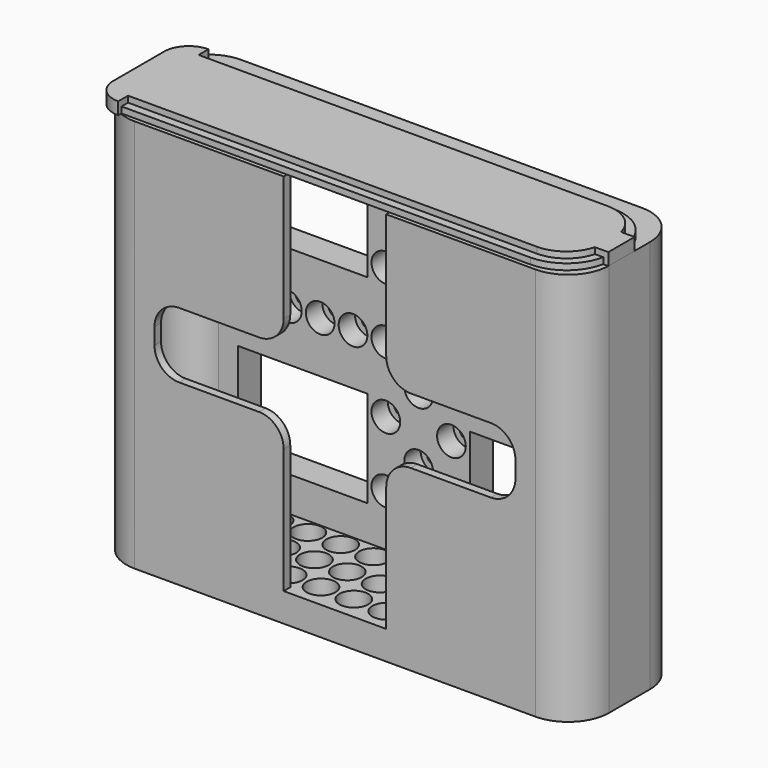
from build123d import *

# Parameters (mm, degrees)
SKETCH_R        = 2
PAD_DEPTH       = 2
SKETCH010_R     = 3.5
PAD008_DEPTH    = 5
PAD009_DEPTH    = 89
SKETCH013_R     = 3.5
SKETCH013_W     = 31.5
SKETCH013_H     = 23.5
POCKET_DEPTH    = 5
SKETCH014_R     = 2
SKETCH014_W     = 31.5
SKETCH014_H     = 23.5
POCKET001_DEPTH = 2
POCKET002_DEPTH = 2
FILLET_R        = 6
FILLET003_R     = 8
FILLET004_R     = 10
PAD005_DEPTH    = 1.5
PAD006_DEPTH    = 1.5
SKETCH009_W     = 8
SKETCH009_H     = 3
PAD007_DEPTH    = 3
FILLET002_R     = 5.99


with BuildPart() as shell:
    # Sketch → Pad (new body)
    with BuildSketch(Plane.XY):
        Polygon((-58.85, -13.75), (58.85, -13.75), (58.85, 13.75), (58.85, 18.75), (-58.85, 18.75), (-58.85, 13.75), align=None)
        with Locations((8, -8)):
            Circle(SKETCH_R, mode=Mode.SUBTRACT)
        with Locations((16, -8)):
            Circle(SKETCH_R, mode=Mode.SUBTRACT)
        with Locations((24, -8)):
            Circle(SKETCH_R, mode=Mode.SUBTRACT)
        with Locations((32, -8)):
            Circle(SKETCH_R, mode=Mode.SUBTRACT)
        with Locations((40, -8)):
            Circle(SKETCH_R, mode=Mode.SUBTRACT)
        with Locations((48, -8)):
            Circle(SKETCH_R, mode=Mode.SUBTRACT)
        with Locations((48, 0)):
            Circle(SKETCH_R, mode=Mode.SUBTRACT)
        with Locations((40, 0)):
            Circle(SKETCH_R, mode=Mode.SUBTRACT)
        with Locations((32, 0)):
            Circle(SKETCH_R, mode=Mode.SUBTRACT)
        with Locations((24, 0)):
            Circle(SKETCH_R, mode=Mode.SUBTRACT)
        with Locations((16, 0)):
            Circle(SKETCH_R, mode=Mode.SUBTRACT)
        with Locations((8, 0)):
            Circle(SKETCH_R, mode=Mode.SUBTRACT)
        Circle(SKETCH_R, mode=Mode.SUBTRACT)
        with Locations((0, -8)):
            Circle(SKETCH_R, mode=Mode.SUBTRACT)
        with Locations((0, 8)):
            Circle(SKETCH_R, mode=Mode.SUBTRACT)
        with Locations((8, 8)):
            Circle(SKETCH_R, mode=Mode.SUBTRACT)
        with Locations((16, 8)):
            Circle(SKETCH_R, mode=Mode.SUBTRACT)
        with Locations((24, 8)):
            Circle(SKETCH_R, mode=Mode.SUBTRACT)
        with Locations((32, 8)):
            Circle(SKETCH_R, mode=Mode.SUBTRACT)
        with Locations((40, 8)):
            Circle(SKETCH_R, mode=Mode.SUBTRACT)
        with Locations((48, 8)):
            Circle(SKETCH_R, mode=Mode.SUBTRACT)
        with Locations((-8, -8)):
            Circle(SKETCH_R, mode=Mode.SUBTRACT)
        with Locations((-8, 0)):
            Circle(SKETCH_R, mode=Mode.SUBTRACT)
        with Locations((-8, 8)):
            Circle(SKETCH_R, mode=Mode.SUBTRACT)
        with Locations((-16, 8)):
            Circle(SKETCH_R, mode=Mode.SUBTRACT)
        with Locations((-16, 0)):
            Circle(SKETCH_R, mode=Mode.SUBTRACT)
        with Locations((-16, -8)):
            Circle(SKETCH_R, mode=Mode.SUBTRACT)
        with Locations((-24, -8)):
            Circle(SKETCH_R, mode=Mode.SUBTRACT)
        with Locations((-32, -8)):
            Circle(SKETCH_R, mode=Mode.SUBTRACT)
        with Locations((-40, -8)):
            Circle(SKETCH_R, mode=Mode.SUBTRACT)
        with Locations((-48, -8)):
            Circle(SKETCH_R, mode=Mode.SUBTRACT)
        with Locations((-48, 0)):
            Circle(SKETCH_R, mode=Mode.SUBTRACT)
        with Locations((-40, 0)):
            Circle(SKETCH_R, mode=Mode.SUBTRACT)
        with Locations((-32, 0)):
            Circle(SKETCH_R, mode=Mode.SUBTRACT)
        with Locations((-24, 0)):
            Circle(SKETCH_R, mode=Mode.SUBTRACT)
        with Locations((-24, 8)):
            Circle(SKETCH_R, mode=Mode.SUBTRACT)
        with Locations((-32, 8)):
            Circle(SKETCH_R, mode=Mode.SUBTRACT)
        with Locations((-40, 8)):
            Circle(SKETCH_R, mode=Mode.SUBTRACT)
        with Locations((-48, 8)):
            Circle(SKETCH_R, mode=Mode.SUBTRACT)
    extrude(amount=PAD_DEPTH)

    # Sketch010 (on Face43 of Pad) → Pad008 (join)
    with BuildSketch(Plane.XY.offset(2)):
        Polygon((-58.85, -13.75), (58.85, -13.75), (58.85, 13.75), (58.85, 18.75), (-58.85, 18.75), (-58.85, 13.75), align=None)
        with Locations((8, -8)):
            Circle(SKETCH010_R, mode=Mode.SUBTRACT)
        with Locations((16, -8)):
            Circle(SKETCH010_R, mode=Mode.SUBTRACT)
        with Locations((24, -8)):
            Circle(SKETCH010_R, mode=Mode.SUBTRACT)
        with Locations((32, -8)):
            Circle(SKETCH010_R, mode=Mode.SUBTRACT)
        with Locations((40, -8)):
            Circle(SKETCH010_R, mode=Mode.SUBTRACT)
        with Locations((48, -8)):
            Circle(SKETCH010_R, mode=Mode.SUBTRACT)
        with Locations((48, 0)):
            Circle(SKETCH010_R, mode=Mode.SUBTRACT)
        with Locations((40, 0)):
            Circle(SKETCH010_R, mode=Mode.SUBTRACT)
        with Locations((32, 0)):
            Circle(SKETCH010_R, mode=Mode.SUBTRACT)
        with Locations((24, 0)):
            Circle(SKETCH010_R, mode=Mode.SUBTRACT)
        with Locations((16, 0)):
            Circle(SKETCH010_R, mode=Mode.SUBTRACT)
        with Locations((8, 0)):
            Circle(SKETCH010_R, mode=Mode.SUBTRACT)
        Circle(SKETCH010_R, mode=Mode.SUBTRACT)
        with Locations((0, -8)):
            Circle(SKETCH010_R, mode=Mode.SUBTRACT)
        with Locations((0, 8)):
            Circle(SKETCH010_R, mode=Mode.SUBTRACT)
        with Locations((8, 8)):
            Circle(SKETCH010_R, mode=Mode.SUBTRACT)
        with Locations((16, 8)):
            Circle(SKETCH010_R, mode=Mode.SUBTRACT)
        with Locations((24, 8)):
            Circle(SKETCH010_R, mode=Mode.SUBTRACT)
        with Locations((32, 8)):
            Circle(SKETCH010_R, mode=Mode.SUBTRACT)
        with Locations((40, 8)):
            Circle(SKETCH010_R, mode=Mode.SUBTRACT)
        with Locations((48, 8)):
            Circle(SKETCH010_R, mode=Mode.SUBTRACT)
        with Locations((-8, -8)):
            Circle(SKETCH010_R, mode=Mode.SUBTRACT)
        with Locations((-8, 0)):
            Circle(SKETCH010_R, mode=Mode.SUBTRACT)
        with Locations((-8, 8)):
            Circle(SKETCH010_R, mode=Mode.SUBTRACT)
        with Locations((-16, 8)):
            Circle(SKETCH010_R, mode=Mode.SUBTRACT)
        with Locations((-16, 0)):
            Circle(SKETCH010_R, mode=Mode.SUBTRACT)
        with Locations((-16, -8)):
            Circle(SKETCH010_R, mode=Mode.SUBTRACT)
        with Locations((-24, -8)):
            Circle(SKETCH010_R, mode=Mode.SUBTRACT)
        with Locations((-32, -8)):
            Circle(SKETCH010_R, mode=Mode.SUBTRACT)
        with Locations((-40, -8)):
            Circle(SKETCH010_R, mode=Mode.SUBTRACT)
        with Locations((-48, -8)):
            Circle(SKETCH010_R, mode=Mode.SUBTRACT)
        with Locations((-48, 0)):
            Circle(SKETCH010_R, mode=Mode.SUBTRACT)
        with Locations((-40, 0)):
            Circle(SKETCH010_R, mode=Mode.SUBTRACT)
        with Locations((-32, 0)):
            Circle(SKETCH010_R, mode=Mode.SUBTRACT)
        with Locations((-24, 0)):
            Circle(SKETCH010_R, mode=Mode.SUBTRACT)
        with Locations((-24, 8)):
            Circle(SKETCH010_R, mode=Mode.SUBTRACT)
        with Locations((-32, 8)):
            Circle(SKETCH010_R, mode=Mode.SUBTRACT)
        with Locations((-40, 8)):
            Circle(SKETCH010_R, mode=Mode.SUBTRACT)
        with Locations((-48, 8)):
            Circle(SKETCH010_R, mode=Mode.SUBTRACT)
    extrude(amount=PAD008_DEPTH)

    # Sketch011 (on Face81 of Pad008) → Pad009 (join)
    with BuildSketch(Plane.XY.offset(7)):
        Polygon((56.85, -11.75), (56.85, 11.75), (-56.85, 11.75), (-56.85, -11.75), (-12.5, -11.75), (-12.5, -13.75), (-58.85, -13.75), (-58.85, 13.75), (-58.85, 18.75), (58.85, 18.75), (58.85, 13.75), (58.85, -13.75), (12.5, -13.75), (12.5, -11.75), align=None)
    extrude(amount=PAD009_DEPTH)

    # Sketch013 (on Face86 of Pad009) → Pocket (cut)
    with BuildSketch(Plane.XZ.offset(-11.75)):
        with Locations((0, 59.5)):
            Circle(SKETCH013_R)
        with Locations((0, 51.5)):
            Circle(SKETCH013_R)
        with Locations((8, 51.5)):
            Circle(SKETCH013_R)
        with Locations((16, 51.5)):
            Circle(SKETCH013_R)
        with Locations((24, 51.5)):
            Circle(SKETCH013_R)
        with Locations((32, 51.5)):
            Circle(SKETCH013_R)
        with Locations((-40, 51.5)):
            Circle(SKETCH013_R)
        with Locations((-32, 51.5)):
            Circle(SKETCH013_R)
        with Locations((-24, 51.5)):
            Circle(SKETCH013_R)
        with Locations((-16, 51.5)):
            Circle(SKETCH013_R)
        with Locations((-8, 51.5)):
            Circle(SKETCH013_R)
        with Locations((0, 43.5)):
            Circle(SKETCH013_R)
        with Locations((8, 35.5)):
            Circle(SKETCH013_R)
        with Locations((-8, 35.5)):
            Circle(SKETCH013_R)
        with Locations((0, 27.5)):
            Circle(SKETCH013_R)
        with Locations((-8, 19.5)):
            Circle(SKETCH013_R)
        with Locations((8, 19.5)):
            Circle(SKETCH013_R)
        with Locations((8, 67.5)):
            Circle(SKETCH013_R)
        with Locations((-8, 67.5)):
            Circle(SKETCH013_R)
        with Locations((0, 75.5)):
            Circle(SKETCH013_R)
        with Locations((-8, 83.5)):
            Circle(SKETCH013_R)
        with Locations((8, 83.5)):
            Circle(SKETCH013_R)
        with Locations((40, 51.5)):
            Circle(SKETCH013_R)
        with Locations((-28.25, 75.75)):
            Rectangle(SKETCH013_W, SKETCH013_H)
        with Locations((-28.25, 27.25)):
            Rectangle(SKETCH013_W, SKETCH013_H)
        with Locations((28.25, 27.25)):
            Rectangle(SKETCH013_W, SKETCH013_H)
        with Locations((28.25, 75.75)):
            Rectangle(SKETCH013_W, SKETCH013_H)
    extrude(amount=-POCKET_DEPTH, mode=Mode.SUBTRACT)

    # Sketch014 (on Face130 of Pad009) → Pocket001 (cut)
    with BuildSketch(Plane(origin=(0, 18.75, 0), x_dir=(-1, 0, 0), z_dir=(0, 1, 0))):
        with Locations((0, 51.5)):
            Circle(SKETCH014_R)
        with Locations((0, 59.5)):
            Circle(SKETCH014_R)
        with Locations((-8, 67.5)):
            Circle(SKETCH014_R)
        with Locations((0, 75.5)):
            Circle(SKETCH014_R)
        with Locations((8, 67.5)):
            Circle(SKETCH014_R)
        with Locations((8, 83.5)):
            Circle(SKETCH014_R)
        with Locations((-8, 83.5)):
            Circle(SKETCH014_R)
        with Locations((-8, 51.5)):
            Circle(SKETCH014_R)
        with Locations((-16, 51.5)):
            Circle(SKETCH014_R)
        with Locations((-24, 51.5)):
            Circle(SKETCH014_R)
        with Locations((-32, 51.5)):
            Circle(SKETCH014_R)
        with Locations((-40, 51.5)):
            Circle(SKETCH014_R)
        with Locations((8, 51.5)):
            Circle(SKETCH014_R)
        with Locations((16, 51.5)):
            Circle(SKETCH014_R)
        with Locations((24, 51.5)):
            Circle(SKETCH014_R)
        with Locations((32, 51.5)):
            Circle(SKETCH014_R)
        with Locations((40, 51.5)):
            Circle(SKETCH014_R)
        with Locations((0, 43.5)):
            Circle(SKETCH014_R)
        with Locations((-8, 35.5)):
            Circle(SKETCH014_R)
        with Locations((8, 35.5)):
            Circle(SKETCH014_R)
        with Locations((0, 27.5)):
            Circle(SKETCH014_R)
        with Locations((-8, 19.5)):
            Circle(SKETCH014_R)
        with Locations((8, 19.5)):
            Circle(SKETCH014_R)
        with Locations((-28.25, 75.75)):
            Rectangle(SKETCH014_W, SKETCH014_H)
        with Locations((-28.25, 27.25)):
            Rectangle(SKETCH014_W, SKETCH014_H)
        with Locations((28.25, 27.25)):
            Rectangle(SKETCH014_W, SKETCH014_H)
        with Locations((28.25, 75.75)):
            Rectangle(SKETCH014_W, SKETCH014_H)
    extrude(amount=-POCKET001_DEPTH, mode=Mode.SUBTRACT)

    # Sketch015 (on Face2 of Pocket001) → Pocket002 (cut)
    with BuildSketch(Plane.XZ.offset(13.75)):
        with BuildLine():
            Line((-38, 43.5), (38, 43.5))
            ThreePointArc((38, 43.5), (42.242641, 45.257359), (44, 49.5))
            Line((44, 49.5), (44, 53.5))
            ThreePointArc((44, 53.5), (42.242641, 57.742641), (38, 59.5))
            Line((38, 59.5), (-38, 59.5))
            ThreePointArc((-38, 59.5), (-42.242641, 57.742641), (-44, 53.5))
            Line((-44, 53.5), (-44, 49.5))
            ThreePointArc((-44, 49.5), (-42.242641, 45.257359), (-38, 43.5))
        make_face()
    extrude(amount=-POCKET002_DEPTH, mode=Mode.SUBTRACT)

    # Fillet
    fillet_edges = [shell.edges().sort_by_distance(p)[0] for p in [
        (12.5, -12.75, 59.5),
        (12.5, -12.75, 43.5),
        (-12.5, -12.75, 43.5),
        (-12.5, -12.75, 59.5),
    ]]
    fillet(fillet_edges, radius=FILLET_R)

    # Fillet003
    fillet003_edges = [shell.edges().sort_by_distance(p)[0] for p in [
        (56.85, 11.75, 51.5),
        (-56.85, 11.75, 51.5),
        (-56.85, -11.75, 51.5),
        (56.85, -11.75, 51.5),
    ]]
    fillet(fillet003_edges, radius=FILLET003_R)

    # Fillet004
    fillet004_edges = [shell.edges().sort_by_distance(p)[0] for p in [
        (58.85, -13.75, 48),
        (-58.85, -13.75, 48),
        (58.85, 18.75, 48),
        (-58.85, 18.75, 48),
    ]]
    fillet(fillet004_edges, radius=FILLET004_R)


with BuildPart() as top:
    # Sketch007 → Pad005 (new body)
    with BuildSketch(Plane.XY):
        with BuildLine():
            Line((-46.85, -12.75), (46.85, -12.75))
            ThreePointArc((46.85, -12.75), (54.628175, -9.528175), (57.85, -1.75))
            Line((57.85, -1.75), (57.85, 1.75))
            ThreePointArc((57.85, 1.75), (54.628175, 9.528175), (46.85, 12.75))
            Line((46.85, 12.75), (-46.85, 12.75))
            Line((-52.85, 12.75), (-46.85, 12.75))
            Line((-52.85, 13.75), (-52.85, 12.75))
            Line((-58.85, 13.75), (-52.85, 13.75))
            Line((-58.85, -13.75), (-58.85, 13.75))
            Line((-52.85, -13.75), (-58.85, -13.75))
            Line((-52.85, -12.75), (-52.85, -13.75))
            Line((-46.85, -12.75), (-52.85, -12.75))
        make_face()
    extrude(amount=PAD005_DEPTH)

    # Sketch008 (on Face10 of Pad005) → Pad006 (join)
    with BuildSketch(Plane.XY.offset(1.5)):
        with BuildLine():
            Line((-46.85, -10.75), (46.85, -10.75))
            ThreePointArc((46.85, -10.75), (53.213961, -8.113961), (55.85, -1.75))
            Line((55.85, -1.75), (55.85, 1.75))
            ThreePointArc((55.85, 1.75), (53.213961, 8.113961), (46.85, 10.75))
            Line((46.85, 10.75), (-46.85, 10.75))
            Line((-46.85, 10.75), (-52.85, 10.75))
            Line((-52.85, 10.75), (-52.85, 13.75))
            Line((-52.85, 13.75), (-58.85, 13.75))
            Line((-58.85, 13.75), (-58.85, -13.75))
            Line((-58.85, -13.75), (-52.85, -13.75))
            Line((-52.85, -13.75), (-52.85, -10.75))
            Line((-52.85, -10.75), (-46.85, -10.75))
        make_face()
    extrude(amount=PAD006_DEPTH)

    # Sketch009 (on Face10 of Pad006) → Pad007 (join, symmetric)
    with BuildSketch(Plane.YZ.offset(55.85)):
        with Locations((0, 1.5)):
            Rectangle(SKETCH009_W, SKETCH009_H)
    extrude(amount=PAD007_DEPTH, both=True)

    # Fillet002
    fillet002_edges = [top.edges().sort_by_distance(p)[0] for p in [
        (-58.85, 13.75, 1.5),
        (-58.85, -13.75, 1.5),
    ]]
    fillet(fillet002_edges, radius=FILLET002_R)


with BuildPart() as top_1:
    # Body001 placement: moved
    add(top.part.moved(Location((0, 0, 96))))


solid = Compound([shell.part, top_1.part])
